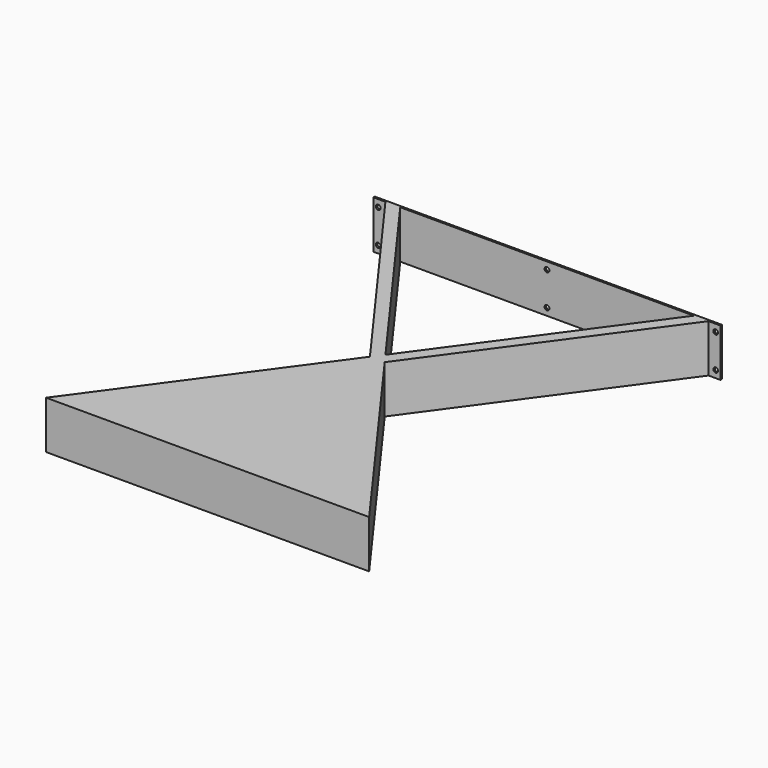
from build123d import *

# Parameters (mm, degrees)
PAD_DEPTH         = 40
SKETCH002_R       = 4
POCKET_DEPTH      = 5
POCKET_DEPTH_BACK = -5


with BuildPart() as part:
    # Sketch → Pad (new body, symmetric)
    with BuildSketch(Plane.XY):
        Polygon((20, 0), (560, 0), (302.361985, 354.5), (560, 709), (580, 709), (580, 712), (0, 712), (0, 709), (20, 709), (277.638015, 354.5), align=None)
        Polygon((44.723969, 709), (290, 371.509615), (535.276031, 709), align=None, mode=Mode.SUBTRACT)
    extrude(amount=PAD_DEPTH, both=True)

    # Sketch002 → Pocket (cut, two sides)
    with BuildSketch(Plane.XZ.offset(-710)) as pocket_sk:
        with Locations((8, 28)):
            Circle(SKETCH002_R)
        with Locations((290, 28)):
            Circle(SKETCH002_R)
        with Locations((572, 28)):
            Circle(SKETCH002_R)
        with Locations((572, -28)):
            Circle(SKETCH002_R)
        with Locations((290, -28)):
            Circle(SKETCH002_R)
        with Locations((8, -28)):
            Circle(SKETCH002_R)
    extrude(amount=-POCKET_DEPTH, mode=Mode.SUBTRACT)
    extrude(pocket_sk.sketch, amount=-POCKET_DEPTH_BACK, mode=Mode.SUBTRACT)


solid = part.part
